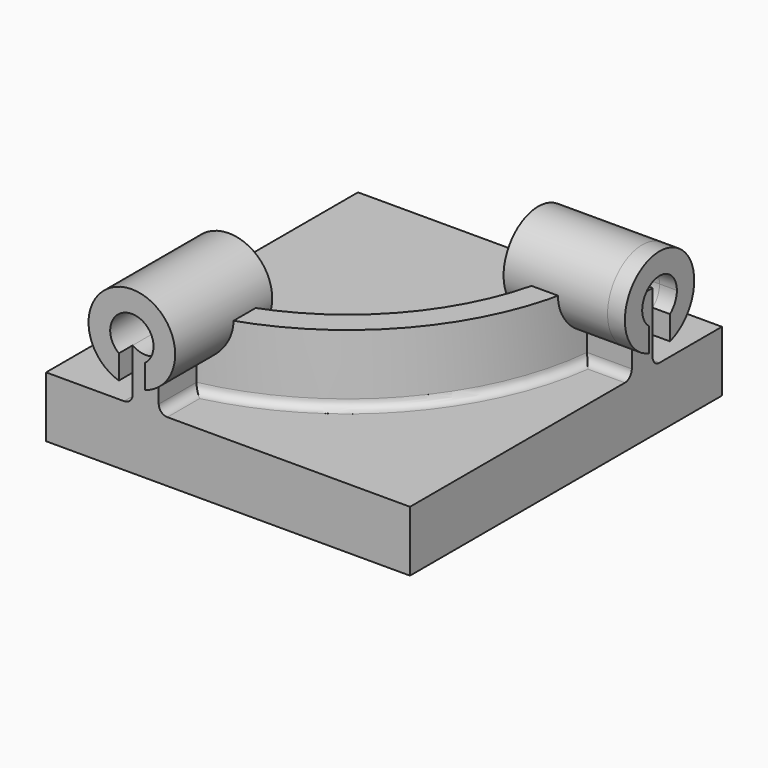
from build123d import *

# Parameters (mm, degrees)
F1_DEPTH      = 40
F2_DEPTH      = 35
F4_DEPTH      = 10
F4_DEPTH_BACK = 60
F5_DEPTH      = 50
F7_DEPTH      = 10
F7_DEPTH_BACK = 60
F8_R          = 5


with BuildPart() as f1:
    # F0 (on Top) → F1 (new body)
    with BuildSketch(Plane.XY):
        with BuildLine():
            Line((105, 47.5), (105, 62.5))
            Line((105, 62.5), (65, 62.5))
            ThreePointArc((65, 62.5), (30.6634542586, -27.8119593409), (-55, -72.5))
            Line((-55, -72.5), (-55, -112.5))
            Line((-55, -112.5), (-40, -112.5))
            Line((-40, -112.5), (-40, -85.2328670269))
            ThreePointArc((-40, -85.2328670269), (41.3403887056, -38.3751932542), (79.2528089625, 47.5))
            Line((79.2528089625, 47.5), (105, 47.5))
        make_face()
    extrude(amount=F1_DEPTH)

    # F0 (on Top) → F2 (join)
    with BuildSketch(Plane.XY):
        with BuildLine():
            Line((105, 62.5), (105, 112.5))
            Line((105, 112.5), (-105, 112.5))
            Line((-105, 112.5), (-105, -112.5))
            Line((-105, -112.5), (-55, -112.5))
            Line((-55, -112.5), (-55, -72.5))
            ThreePointArc((-55, -72.5), (30.6634542586, -27.8119593409), (65, 62.5))
            Line((65, 62.5), (105, 62.5))
        make_face()
        with BuildLine():
            Line((105, 47.5), (105, 62.5))
            Line((105, 62.5), (65, 62.5))
            ThreePointArc((65, 62.5), (30.6634542586, -27.8119593409), (-55, -72.5))
            Line((-55, -72.5), (-55, -112.5))
            Line((-55, -112.5), (-40, -112.5))
            Line((-40, -112.5), (-40, -85.2328670269))
            ThreePointArc((-40, -85.2328670269), (41.3403887056, -38.3751932542), (79.2528089625, 47.5))
            Line((79.2528089625, 47.5), (105, 47.5))
        make_face()
        with BuildLine():
            Line((105, -112.5), (105, 47.5))
            Line((105, 47.5), (79.2528089625, 47.5))
            ThreePointArc((79.2528089625, 47.5), (41.3403887056, -38.3751932542), (-40, -85.2328670269))
            Line((-40, -85.2328670269), (-40, -112.5))
            Line((-40, -112.5), (105, -112.5))
        make_face()
    extrude(amount=-F2_DEPTH)

    # F3 (on face) → F5 (cut)
    with BuildSketch(Plane.XZ.offset(112.5)):
        with BuildLine():
            ThreePointArc((-35, 40), (-53.0901699437, 51.1803398875), (-55, 30))
            Line((-55, 30), (-55, 40))
            Line((-55, 40), (-40, 40))
            Line((-40, 40), (-40, 30))
            ThreePointArc((-40, 30), (-36.3196601125, 34.4098300563), (-35, 40))
        make_face()
        with BuildLine():
            Line((-55, 40), (-55, 30))
            ThreePointArc((-55, 30), (-47.5, 27.5), (-40, 30))
            Line((-40, 30), (-40, 40))
            Line((-40, 40), (-55, 40))
        make_face()
    extrude(amount=-F5_DEPTH, mode=Mode.SUBTRACT)

    # F8
    f8_edges = [f1.edges().sort_by_distance(p)[0] for p in [
        (41.340389, -38.375193, 0),
        (-40, -98.866434, 0),
        (92.126404, 47.5, 0),
        (30.663454, -27.811959, 0),
        (85, 62.5, 0),
        (-55, -92.5, 0),
    ]]
    fillet(f8_edges, radius=F8_R)


with BuildPart() as f4:
    # F3 (on face) → F4 (new body, two sides)
    with BuildSketch(Plane.XZ.offset(112.5)) as f4_sk:
        with BuildLine():
            ThreePointArc((-40, 16.1515199646), (-27.3443556293, 25.2098005423), (-22.5, 40))
            ThreePointArc((-22.5, 40), (-62.2901994577, 60.1556443707), (-55, 16.1515199646))
            Line((-55, 16.1515199646), (-55, 30))
            ThreePointArc((-55, 30), (-53.0901699437, 51.1803398875), (-35, 40))
            ThreePointArc((-35, 40), (-36.3196601125, 34.4098300563), (-40, 30))
            Line((-40, 30), (-40, 16.1515199646))
        make_face()
    extrude(amount=F4_DEPTH)
    extrude(f4_sk.sketch, amount=-F4_DEPTH_BACK)


with BuildPart() as f7:
    # F6 (on face) → F7 (new body, two sides)
    with BuildSketch(Plane.YZ.offset(105)) as f7_sk:
        with BuildLine():
            ThreePointArc((47.5, 30), (49.4098300563, 51.1803398875), (67.5, 40))
            ThreePointArc((67.5, 40), (66.1803398875, 34.4098300563), (62.5, 30))
            Line((62.5, 30), (62.5, 16.1515199646))
            ThreePointArc((62.5, 16.1515199646), (75.1556443707, 25.2098005423), (80, 40))
            ThreePointArc((80, 40), (40.2098005423, 60.1556443707), (47.5, 16.1515199646))
            Line((47.5, 16.1515199646), (47.5, 30))
        make_face()
    extrude(amount=F7_DEPTH)
    extrude(f7_sk.sketch, amount=-F7_DEPTH_BACK)


solid = Compound([f1.part, f4.part, f7.part])
